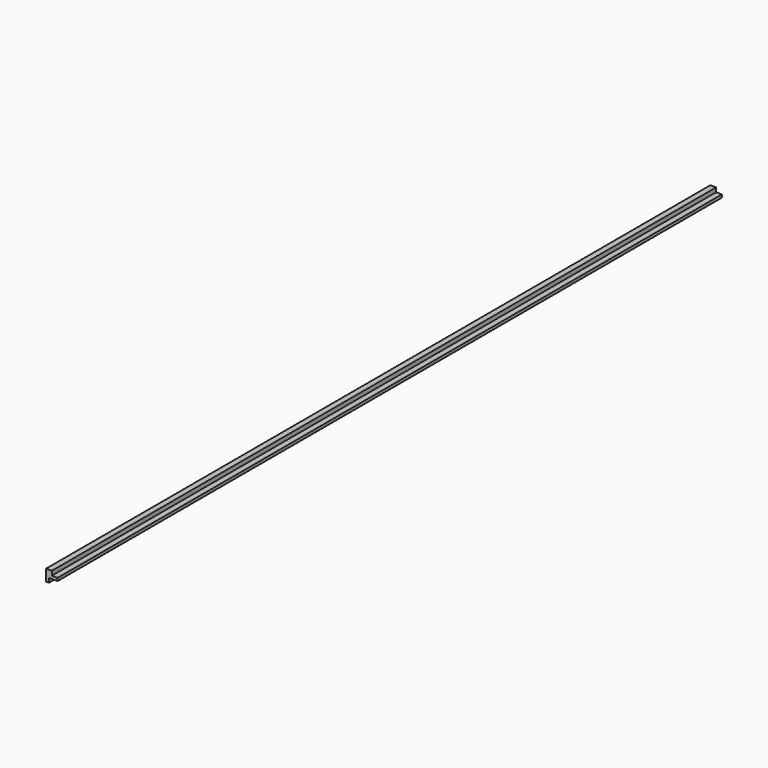
from build123d import *

# Parameters (mm, degrees)
F0_W     = 12.7
F0_H     = 12.7
F1_DEPTH = 914.4
F2_W     = 9.525
F2_H     = 4.7625
F3_DEPTH = 914.401
F4_W     = 6.35
F4_H     = 4.7625
F5_DEPTH = 914.401


with BuildPart() as f1:
    # F0 (on Front) → F1 (new body)
    with BuildSketch(Plane.XZ):
        with Locations((6.35, 6.35)):
            Rectangle(F0_W, F0_H)
    extrude(amount=F1_DEPTH)

    # F2 (on Front) → F3 (cut, through all)
    with BuildSketch(Plane.XZ):
        with Locations((7.9375, 2.38125)):
            Rectangle(F2_W, F2_H)
    extrude(amount=F3_DEPTH, mode=Mode.SUBTRACT)

    # F4 (on Front) → F5 (cut, through all)
    with BuildSketch(Plane.XZ):
        with Locations((9.525, 10.31875)):
            Rectangle(F4_W, F4_H)
    extrude(amount=F5_DEPTH, mode=Mode.SUBTRACT)


solid = f1.part
